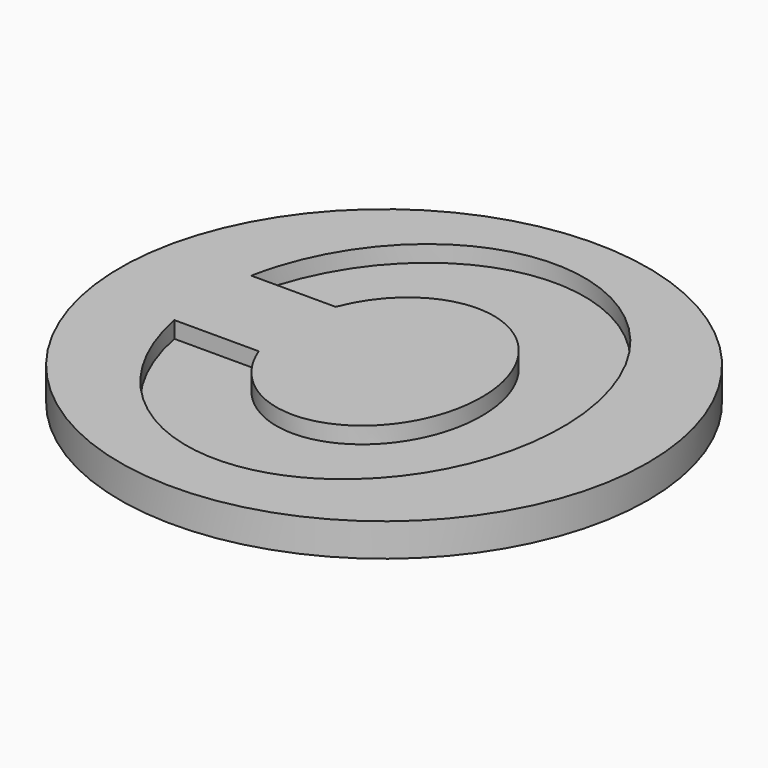
from build123d import *

# Parameters (mm, degrees)
SKETCH001_R  = 20
PAD_DEPTH    = 2.5
POCKET_DEPTH = 1.25


with BuildPart() as part:
    # Sketch001 (on DatumPlane) → Pad (new body)
    with BuildSketch(Plane.XY):
        Circle(SKETCH001_R)
    extrude(amount=-PAD_DEPTH)

    # Sketch002 (on DatumPlane) → Pocket (cut)
    with BuildSketch(Plane.XY):
        with BuildLine():
            add(Edge.make_bspline(
                [(-13.306781, 4.051388), (-6.910381, 4.051388)],
                knots=[0, 0, 131, 131], degree=1))
            add(Edge.make_bspline(
                [(-6.910381, 4.051388), (-3.033469, 14.149212), (4.277794, 7.278702), (11.589056, 0.408192), (4.277794, -6.462319), (-3.033469, -13.332829), (-6.910381, -3.235005)],
                knots=[3.571368, 3.571368, 3.571368, 5.379246, 5.379246, 7.187124, 7.187124, 8.995003, 8.995003, 8.995003], degree=2, weights=[1, 0.61852, 1, 0.61852, 1, 0.61852, 1]))
            add(Edge.make_bspline(
                [(-6.910381, -3.235005), (-13.306781, -3.235005)],
                knots=[0, 0, 131, 131], degree=1))
            add(Edge.make_bspline(
                [(-13.306781, -3.235005), (-8.84633, -26.051739), (7.35143, -12.821774), (23.549189, 0.408192), (7.35143, 13.638157), (-8.84633, 26.868122), (-13.306781, 4.051388)],
                knots=[3.370869, 3.370869, 3.370869, 5.312413, 5.312413, 7.253957, 7.253957, 9.195502, 9.195502, 9.195502], degree=2, weights=[1, 0.564662, 1, 0.564662, 1, 0.564662, 1]))
        make_face()
    extrude(amount=-POCKET_DEPTH, mode=Mode.SUBTRACT)


solid = part.part
